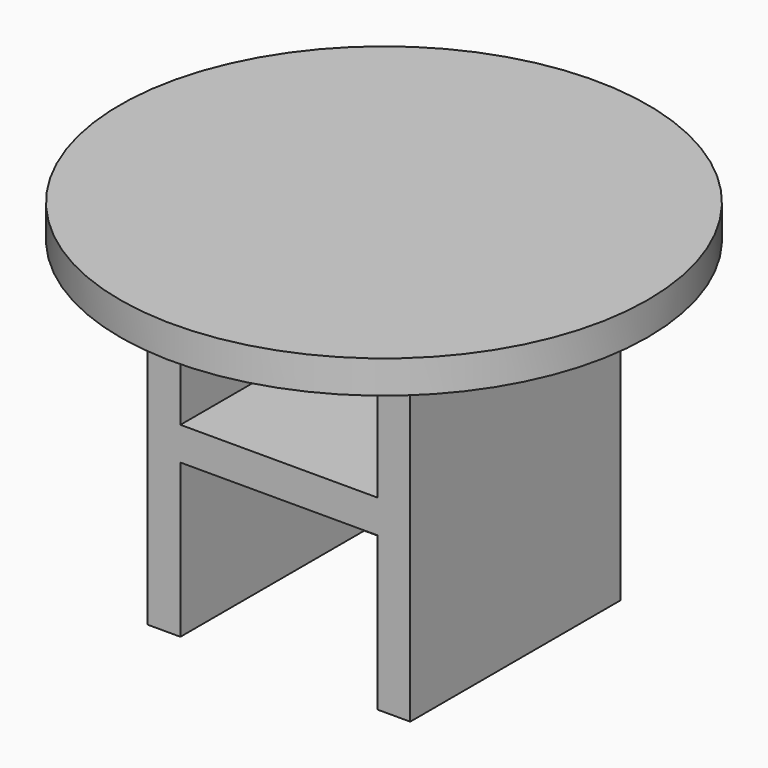
from build123d import *

# Parameters (mm, degrees)
F0_W     = 200
F0_H     = 200
F1_DEPTH = 250
F2_T     = -25
F3_W     = 150
F3_H     = 25.2777785063
F4_DEPTH = 175
F5_R     = 201.014082537
F6_DEPTH = 25


with BuildPart() as f1:
    # F0 (on Top) → F1 (new body)
    with BuildSketch(Plane.XY):
        Rectangle(F0_W, F0_H)
    extrude(amount=-F1_DEPTH)

    # F2
    f2_openings = [f1.faces().sort_by_distance(p)[0] for p in [
        (0, -100, -125),
        (0, 0, 0),
        (0, 0, -250),
    ]]
    offset(amount=F2_T, openings=f2_openings)

    # F3 (on face) → F4 (join)
    with BuildSketch(Plane.XZ.offset(-75)):
        with Locations((0, -120.5015406013)):
            Rectangle(F3_W, F3_H)
    extrude(amount=F4_DEPTH)

    # F5 (on face) → F6 (join)
    with BuildSketch(Plane.XY):
        Circle(F5_R)
        Polygon((-75, -100), (-100, -100), (-100, 100), (100, 100), (100, -100), (75, -100), (75, 75), (-75, 75), align=None, mode=Mode.SUBTRACT)
        Polygon((-100, 100), (-100, -100), (-75, -100), (-75, 75), (75, 75), (75, -100), (100, -100), (100, 100), align=None)
    extrude(amount=F6_DEPTH)


solid = f1.part
